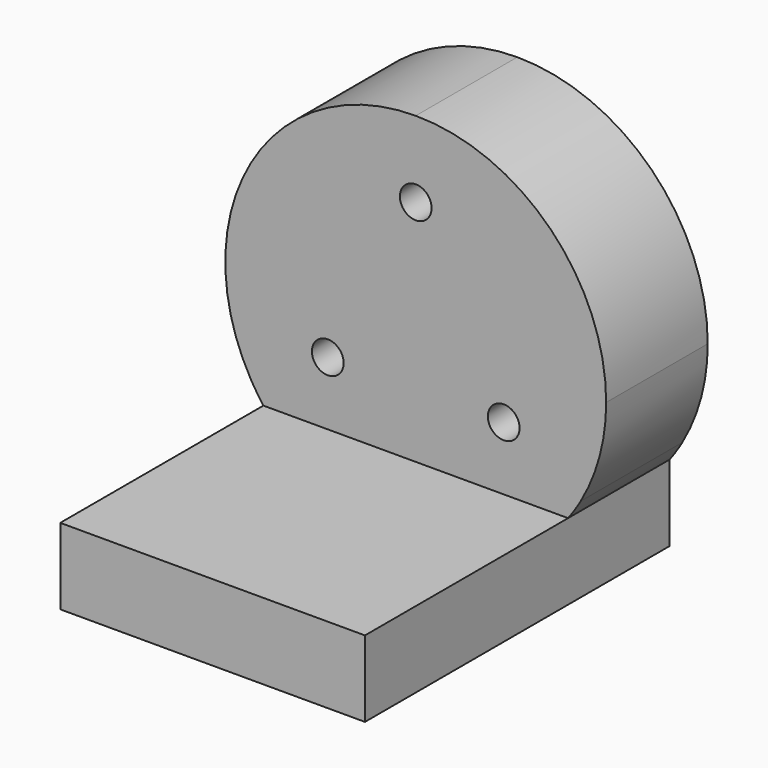
from build123d import *

# Parameters (mm, degrees)
F1_DEPTH = 5
F2_DEPTH = 15
F3_D     = 1.25


with BuildPart() as f1:
    # F0 (on Front) → F1 (new body)
    with BuildSketch(Plane.XZ):
        with BuildLine():
            ThreePointArc((6.4951905284, -3.75), (7.2444436972, -1.9411428383), (7.5, 0))
            ThreePointArc((7.5, 0), (5.3033008589, 5.3033008589), (0, 7.5))
            Line((0, 7.5), (0, 0))
            Line((0, 0), (6.4951905284, -3.75))
        make_face()
        with BuildLine():
            Line((0, 0), (0, 7.5))
            ThreePointArc((0, 7.5), (-6.4951905284, 3.75), (-6.4951905284, -3.75))
            Line((-6.4951905284, -3.75), (0, 0))
        make_face()
        with BuildLine():
            ThreePointArc((6, -4.5), (6.2588394759, -4.1324240362), (6.4951905284, -3.75))
            Line((6.4951905284, -3.75), (0, 0))
            Line((0, 0), (-6.4951905284, -3.75))
            ThreePointArc((-6.4951905284, -3.75), (-6.2588394759, -4.1324240362), (-6, -4.5))
            Line((-6, -4.5), (6, -4.5))
        make_face()
    extrude(amount=F1_DEPTH)

    # F0 (on Front) → F2 (join)
    with BuildSketch(Plane.XZ):
        with BuildLine():
            ThreePointArc((0, -7.5), (3.3541019662, -6.7082039325), (6, -4.5))
            Line((6, -4.5), (-6, -4.5))
            ThreePointArc((-6, -4.5), (-3.3541019662, -6.7082039325), (0, -7.5))
        make_face()
        with BuildLine():
            Line((6, -7.5), (6, -4.5))
            ThreePointArc((6, -4.5), (3.3541019662, -6.7082039325), (0, -7.5))
            Line((0, -7.5), (6, -7.5))
        make_face()
        with BuildLine():
            ThreePointArc((0, -7.5), (-3.3541019662, -6.7082039325), (-6, -4.5))
            Line((-6, -4.5), (-6, -7.5))
            Line((-6, -7.5), (0, -7.5))
        make_face()
    extrude(amount=F2_DEPTH)

    # F3 (through all)
    with Locations(Plane(origin=(0, 0, 0), x_dir=(1, 0, 0), z_dir=(0, 1, 0))):
        with Locations((3.4641016151, 2), (-3.4641016151, 2), (0, -4.5)):
            Hole(F3_D / 2)


solid = f1.part
